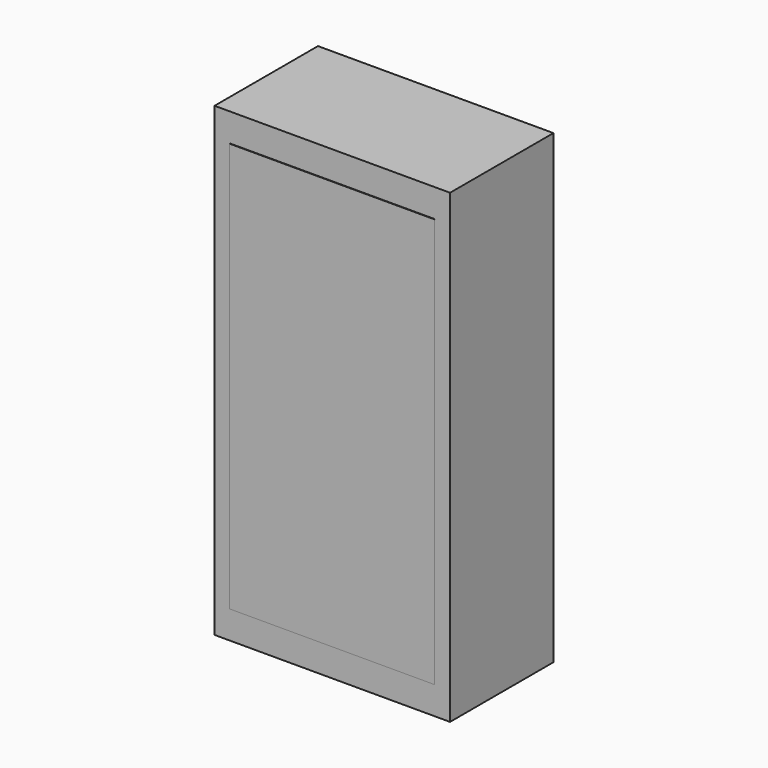
from build123d import *

# Parameters (mm, degrees)
F2_W     = 920
F2_H     = 1820
F3_DEPTH = 505
F0_W     = 800
F0_H     = 1600
F1_DEPTH = 2


with BuildPart() as f3:
    # F2 (on Front) → F3 (new body)
    with BuildSketch(Plane.XZ):
        Rectangle(F2_W, F2_H)
    extrude(amount=F3_DEPTH)


with BuildPart() as f1:
    # F0 (on face) → F1 (new body)
    with BuildSketch(Plane.XZ.offset(505)):
        Rectangle(F0_W, F0_H)
    extrude(amount=F1_DEPTH)


solid = Compound([f3.part, f1.part])
